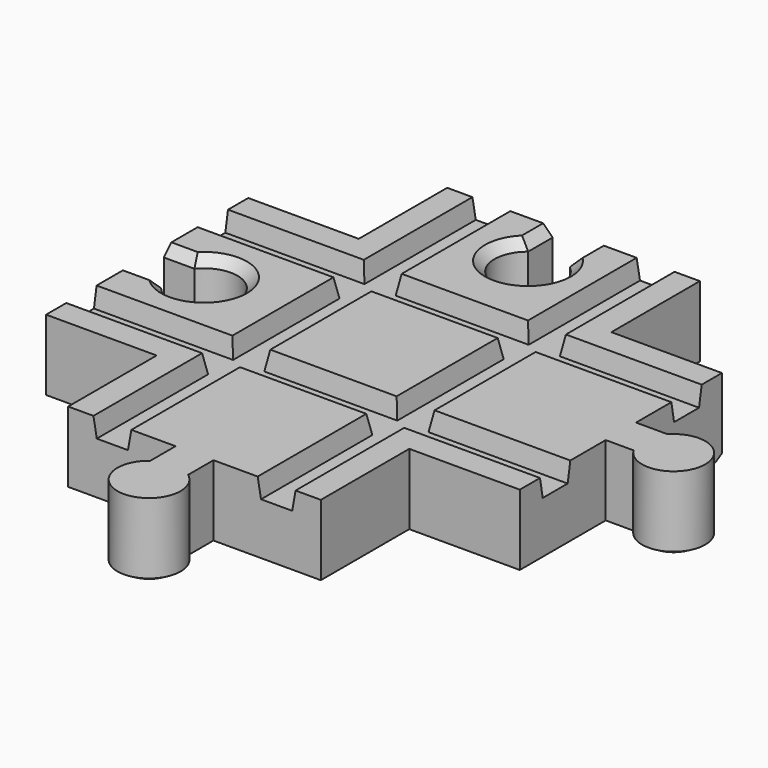
from build123d import *

# Parameters (mm, degrees)
F0_W      = 40
F0_H      = 12
F1_DEPTH  = 75
F3_DEPTH  = 12
F5_DEPTH  = 12
F7_DEPTH  = 75
F9_DEPTH  = 75
F10_SIZE2 = 0.8
F10_SIZE  = 1.3856406461
F11_SIZE  = 1.5


with BuildPart() as f1:
    # F0 (on Right) → F1 (new body)
    with BuildSketch(Plane.YZ):
        with Locations((0, 6)):
            Rectangle(F0_W, F0_H)
    extrude(amount=F1_DEPTH)

    # F2 (on face) → F3 (join)
    with BuildSketch(Plane.XY.offset(12)):
        with BuildLine():
            Line((40.5, -37.5), (57.5, -37.5))
            Line((57.5, -37.5), (57.5, 37.5))
            Line((57.5, 37.5), (40.8, 37.5))
            Line((40.8, 37.5), (40.8, 32.6472882707))
            ThreePointArc((40.8, 32.6472882707), (37.5, 23.2), (34.2, 32.6472882707))
            Line((34.2, 32.6472882707), (34.2, 37.5))
            Line((34.2, 37.5), (17.5, 37.5))
            Line((17.5, 37.5), (17.5, -37.5))
            Line((17.5, -37.5), (34.5, -37.5))
            Line((34.5, -37.5), (34.5, -42.5))
            ThreePointArc((34.5, -42.5), (37.5, -51.5), (40.5, -42.5))
            Line((40.5, -42.5), (40.5, -37.5))
        make_face()
        with BuildLine():
            Line((80, 3), (75, 3))
            Line((75, 3), (75, -3))
            Line((75, -3), (79.4055112535, -3))
            ThreePointArc((79.4055112535, -3), (88.6478954729, -0.8862974958), (80, 3))
        make_face()
    extrude(amount=-F3_DEPTH)

    # F4 (on face) → F5 (cut)
    with BuildSketch(Plane.XY.offset(12)):
        with BuildLine():
            Line((0, 3.3), (0, 3))
            Line((0, 3), (0, -3))
            Line((0, -3), (0, -3.3))
            Line((0, -3.3), (4.8527117293, -3.3))
            ThreePointArc((4.8527117293, -3.3), (14.3, 0), (4.8527117293, 3.3))
            Line((4.8527117293, 3.3), (0, 3.3))
        make_face()
    extrude(amount=-F5_DEPTH, mode=Mode.SUBTRACT)

    # F6 (on face) → F7 (cut)
    with BuildSketch(Plane.YZ.offset(75)):
        Polygon((-10, 12), (-16, 12), (-15.4710190579, 9), (-10.5289809421, 9), align=None)
        Polygon((15.4710190579, 9), (16, 12), (10, 12), (10.5289809421, 9), align=None)
    extrude(amount=-F7_DEPTH, mode=Mode.SUBTRACT)

    # F8 (on face) → F9 (cut)
    with BuildSketch(Plane(origin=(0, 37.5, 0), x_dir=(-1, 0, 0), z_dir=(0, 1, 0))):
        Polygon((-47.5, 12), (-53.5, 12), (-52.9710190579, 9), (-48.0289809421, 9), align=None)
        Polygon((-21.5, 12), (-27.5, 12), (-26.9710190579, 9), (-22.0289809421, 9), align=None)
    extrude(amount=-F9_DEPTH, mode=Mode.SUBTRACT)

    # F10
    f10_edges = [f1.edges().sort_by_distance(p)[0] for p in [
        (37.5, -51.5, 0),
        (40.5, -40, 0),
        (49, -37.5, 0),
        (66.25, -20, 0),
        (34.5, -40, 0),
        (75, -11.5, 0),
        (57.5, -28.75, 0),
        (77.5, 3, 0),
        (77.202756, -3, 0),
        (88.647895, -0.886297, 0),
        (66.25, 20, 0),
        (57.5, 28.75, 0),
        (49.15, 37.5, 0),
        (40.8, 35.073644, 0),
        (37.5, 23.2, 0),
        (34.2, 35.073644, 0),
        (25.85, 37.5, 0),
        (17.5, 28.75, 0),
        (8.75, 20, 0),
        (2.426356, -3.3, 0),
        (14.3, 0, 0),
        (2.426356, 3.3, 0),
        (0, 11.65, 0),
        (0, -11.65, 0),
        (8.75, -20, 0),
        (17.5, -28.75, 0),
        (26, -37.5, 0),
    ]]
    f10_side = f1.faces().sort_by_distance((39.337765, -1.867927, 0))[0]
    chamfer(f10_edges, length=F10_SIZE, length2=F10_SIZE2, reference=f10_side)

    # F11
    f11_edges = [f1.edges().sort_by_distance(p)[0] for p in [
        (2.426356, -3.3, 12),
        (14.3, 0, 12),
        (2.426356, 3.3, 12),
        (37.5, 23.2, 12),
        (34.2, 35.073644, 12),
        (40.8, 35.073644, 12),
    ]]
    chamfer(f11_edges, length=F11_SIZE)


solid = f1.part
